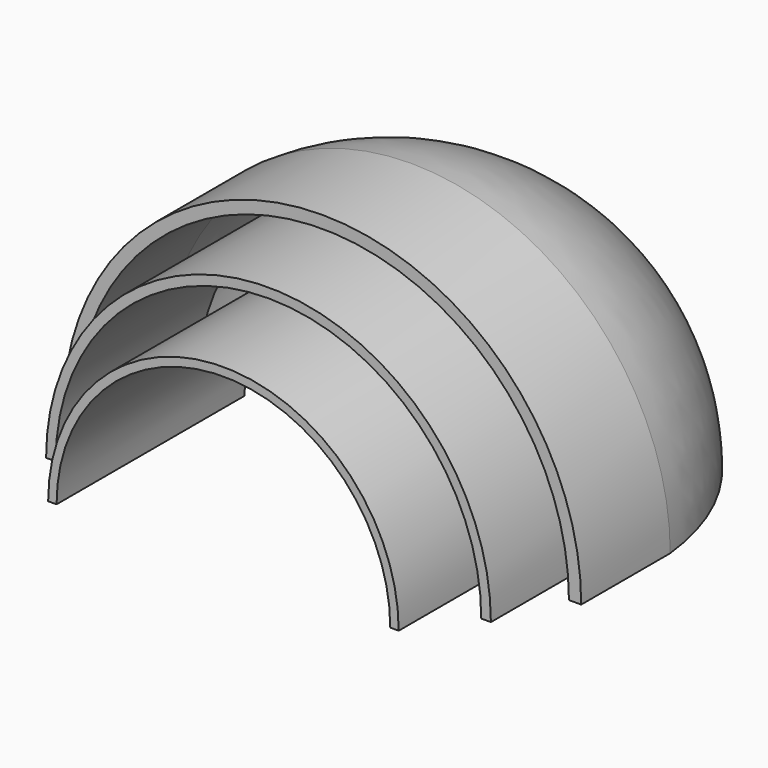
from build123d import *

# Parameters (mm, degrees)
F1_DEPTH = 34.6
F2_DEPTH = 26.3
F3_DEPTH = 16.4
F5_ANGLE = 180


with BuildPart() as f1:
    # F0 (on Front) → F1 (new body)
    with BuildSketch(Plane.XZ):
        with BuildLine():
            ThreePointArc((-24.58537, 0), (0, 24.58537), (24.58537, 0))
            Line((24.58537, 0), (25.825808, 0))
            ThreePointArc((25.825808, 0), (0, 25.825808), (-25.825808, 0))
            Line((-25.825808, 0), (-24.58537, 0))
        make_face()
    extrude(amount=F1_DEPTH)


with BuildPart() as f2:
    # F0 (on Front) → F2 (new body)
    with BuildSketch(Plane.XZ):
        with BuildLine():
            ThreePointArc((-31.352004, 0), (0, 31.352004), (31.352004, 0))
            Line((31.352004, 0), (32.769805, 0))
            ThreePointArc((32.769805, 0), (0, 32.769805), (-32.769805, 0))
            Line((-32.769805, 0), (-31.352004, 0))
        make_face()
    extrude(amount=F2_DEPTH)


with BuildPart() as f3:
    # F0 (on Front) → F3 (new body)
    with BuildSketch(Plane.XZ):
        with BuildLine():
            ThreePointArc((-36.350254, 0), (0, 36.350254), (36.350254, 0))
            Line((36.350254, 0), (38.15886, 0))
            ThreePointArc((38.15886, 0), (0, 38.15886), (-38.15886, 0))
            Line((-38.15886, 0), (-36.350254, 0))
        make_face()
    extrude(amount=F3_DEPTH)

    # F4 (on Top) → F5 (revolve)
    with BuildSketch(Plane.XY):
        with BuildLine():
            Line((0, 32.52184), (0, 34.220715))
            ThreePointArc((0, 34.220715), (-25.61438, 24.397741), (-38.157806, 0))
            Line((-38.157806, 0), (-36.364555, 0))
            ThreePointArc((-36.364555, 0), (-24.401783, 23.215309), (0, 32.52184))
        make_face()
    revolve(axis=Axis((0, 17.110357, 0), (0, 1, 0)), revolution_arc=F5_ANGLE)


solid = Compound([f1.part, f2.part, f3.part])
